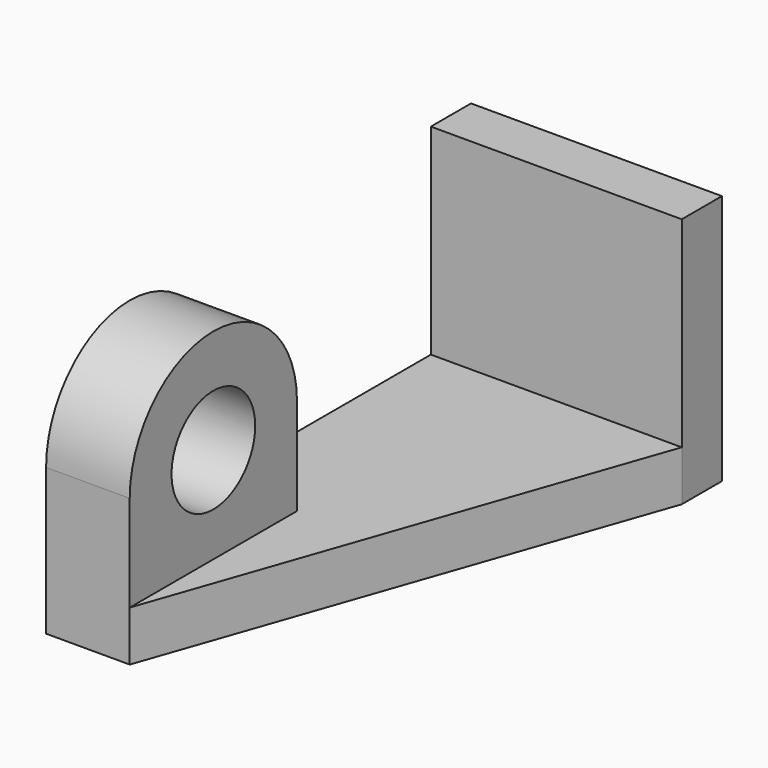
from build123d import *

# Parameters (mm, degrees)
F0_W      = 1524
F0_H      = 1524
F1_DEPTH  = 304.8
F0_W_2    = 40.8719182014
F0_H_2    = 6.1111450195
F3_W      = 1524
F3_H      = 304.8
F4_DEPTH  = 2921
F5_W      = 508
F5_H      = 1270
F6_DEPTH  = 584.2
F8_DEPTH  = 508
F9_R      = 317.5
F10_DEPTH = 2476.5
F12_DEPTH = 2288.54


with BuildPart() as f1:
    # F0 (on Front) → F1 (new body)
    with BuildSketch(Plane.XZ):
        with Locations((-762, 762)):
            Rectangle(F0_W, F0_H)
    extrude(amount=F1_DEPTH)

    # F3 (on face) → F4 (join)
    with BuildSketch(Plane.XZ.offset(304.8)):
        with Locations((-762, 152.4)):
            Rectangle(F3_W, F3_H)
    extrude(amount=F4_DEPTH)

    # F5 (on face) → F6 (join)
    with BuildSketch(Plane.XY.offset(304.8)):
        with Locations((-1270, -2590.8)):
            Rectangle(F5_W, F5_H)
    extrude(amount=F6_DEPTH)

    # F7 (on face) → F8 (join)
    with BuildSketch(Plane.YZ.offset(-1016)):
        with BuildLine():
            Line((-3225.8, 889), (-1955.8, 889))
            ThreePointArc((-1955.8, 889), (-2590.8, 1524), (-3225.8, 889))
        make_face()
    extrude(amount=-F8_DEPTH)

    # F9 (on face) → F10 (cut)
    with BuildSketch(Plane.YZ.offset(-1016)):
        with Locations((-2590.8, 889)):
            Circle(F9_R)
    extrude(amount=-F10_DEPTH, mode=Mode.SUBTRACT)

    # F11 (on face) → F12 (cut)
    with BuildSketch(Plane.XY.offset(304.8)):
        Polygon((0, -304.8), (-1016, -3225.8), (0, -3225.8), align=None)
    extrude(amount=-F12_DEPTH, mode=Mode.SUBTRACT)


with BuildPart() as f1b:
    # F0 (on Front) → F1, piece 2 (new body)
    with BuildSketch(Plane.XZ):
        with Locations((-394.8256671429, -348.9022254944)):
            Rectangle(F0_W_2, F0_H_2)
    extrude(amount=F1_DEPTH)


solid = f1.part
